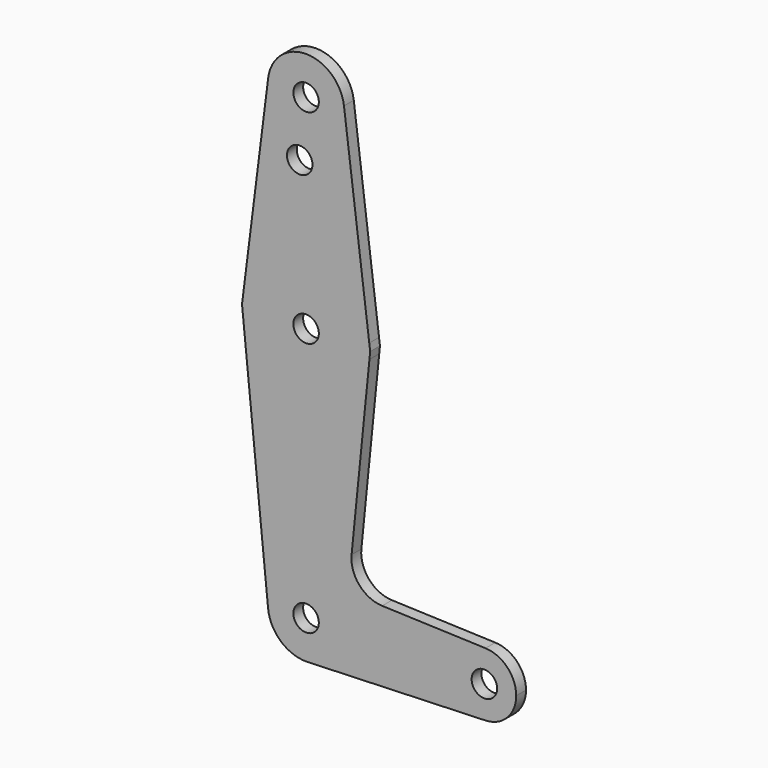
from build123d import *

# Parameters (mm, degrees)
F0_R     = 3.175
F1_DEPTH = 3.048


with BuildPart() as f1:
    # F0 (on Front) → F1 (new body)
    with BuildSketch(Plane.XZ):
        with BuildLine():
            ThreePointArc((-9.4502929642, 115.490625), (-0.596483242, 104.7936951058), (9.525, 114.3))
            ThreePointArc((9.525, 114.3), (9.5063048942, 114.896483242), (9.4502929642, 115.490625))
            ThreePointArc((9.4502929642, 115.490625), (0, 123.825), (-9.4502929642, 115.490625))
        make_face()
        with Locations((0, 114.3)):
            Circle(F0_R, mode=Mode.SUBTRACT)
        with BuildLine():
            ThreePointArc((9.4502929642, 115.490625), (9.5063048942, 114.896483242), (9.525, 114.3))
            ThreePointArc((9.525, 114.3), (-0.596483242, 104.7936951058), (-9.4502929642, 115.490625))
            Line((-9.4502929642, 115.490625), (-15.7504882695, 65.4843750333))
            ThreePointArc((-15.7504882695, 65.4843750333), (1.97e-07, 79.375), (15.7504883187, 65.4843746425))
            Line((15.7504883187, 65.4843746425), (9.4502929642, 115.490625))
        make_face()
        with Locations((-1.5875, 100.0252)):
            Circle(F0_R, mode=Mode.SUBTRACT)
        with BuildLine():
            Line((15.9751747256, 63.7009815757), (15.7504883187, 65.4843746425))
            ThreePointArc((15.7504883187, 65.4843746425), (15.8438415017, 64.4941385568), (15.875, 63.5))
            ThreePointArc((15.875, 63.5), (15.8550939014, 62.7052532622), (15.7954255273, 61.9124996339))
            Line((15.7954255273, 61.9124996339), (15.9751747256, 63.7009815757))
        make_face()
        with BuildLine():
            ThreePointArc((15.875, 63.5), (15.8438415017, 64.4941385568), (15.7504883187, 65.4843746425))
            ThreePointArc((15.7504883187, 65.4843746425), (1.97e-07, 79.375), (-15.7504882695, 65.4843750333))
            ThreePointArc((-15.7504882695, 65.4843750333), (-15.8737438129, 63.6997056929), (-15.795425602, 61.9125003769))
            ThreePointArc((-15.795425602, 61.9125003769), (-3.734e-07, 47.625), (15.7954255273, 61.9124996339))
            ThreePointArc((15.7954255273, 61.9124996339), (15.8550939014, 62.7052532622), (15.875, 63.5))
        make_face()
        with Locations((0, 63.5)):
            Circle(F0_R, mode=Mode.SUBTRACT)
        with BuildLine():
            ThreePointArc((-15.795425602, 61.9125003769), (-15.8737438129, 63.6997056929), (-15.7504882695, 65.4843750333))
            Line((-15.7504882695, 65.4843750333), (-15.9751747256, 63.7009815757))
            Line((-15.9751747256, 63.7009815757), (-15.795425602, 61.9125003769))
        make_face()
        with BuildLine():
            ThreePointArc((15.7954255273, 61.9124996339), (-3.734e-07, 47.625), (-15.795425602, 61.9125003769))
            Line((-15.795425602, 61.9125003769), (-9.4772553384, -0.9525))
            ThreePointArc((-9.4772553384, -0.9525), (-0.4768479324, 9.5130563464), (9.525, 0))
            ThreePointArc((9.525, 0), (6.8544082857, -6.6138273378), (0.3401785714, -9.5189234444))
            Line((0.3401785714, -9.5189234444), (44.7334821429, -7.9324362036))
            ThreePointArc((44.7334821429, -7.9324362036), (36.5125, 0), (44.7334821429, 7.9324362036))
            Line((44.7334821429, 7.9324362036), (18.9676000005, 8.8532337108))
            ThreePointArc((18.9676000005, 8.8532337108), (13.2611998974, 11.5713591498), (11.3411865923, 17.5933818124))
            Line((11.3411865923, 17.5933818124), (15.7954255273, 61.9124996339))
        make_face()
        with BuildLine():
            ThreePointArc((9.525, 0), (-0.4768479324, 9.5130563464), (-9.4772553384, -0.9525))
            ThreePointArc((-9.4772553384, -0.9525), (-6.2623833816, -7.1769199091), (0.3401785714, -9.5189234444))
            ThreePointArc((0.3401785714, -9.5189234444), (6.8544082857, -6.6138273378), (9.525, 0))
        make_face()
        Circle(F0_R, mode=Mode.SUBTRACT)
        with BuildLine():
            ThreePointArc((44.7334821429, 7.9324362036), (36.5125, 0), (44.7334821429, -7.9324362036))
            ThreePointArc((44.7334821429, -7.9324362036), (50.1620069047, -5.5115227815), (52.3875, 0))
            ThreePointArc((52.3875, 0), (50.1620069047, 5.5115227815), (44.7334821429, 7.9324362036))
        make_face()
        with Locations((44.45, 0)):
            Circle(F0_R, mode=Mode.SUBTRACT)
    extrude(amount=F1_DEPTH)


solid = f1.part
